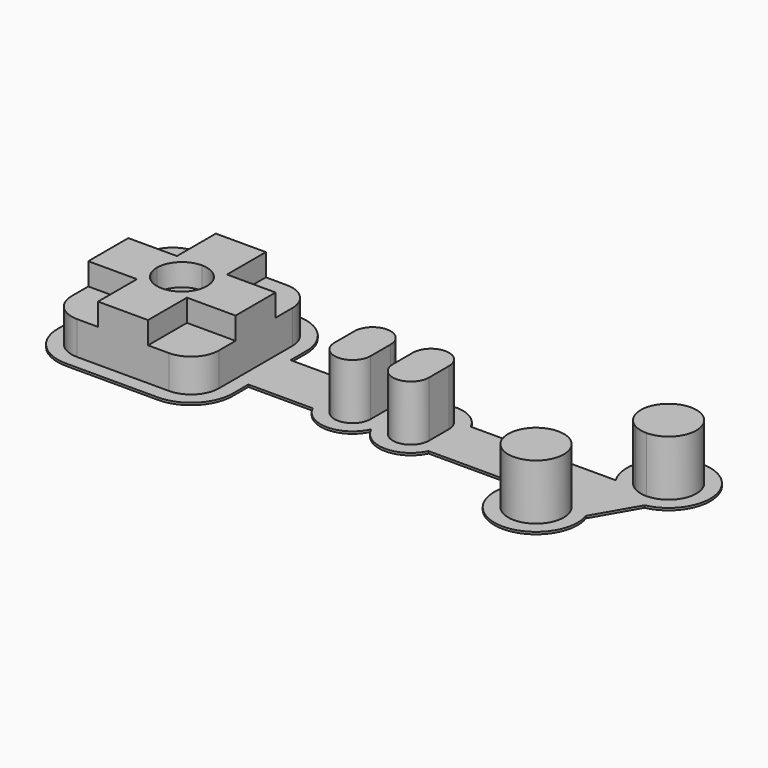
from build123d import *

# Parameters (mm, degrees)
F0_W     = 16
F0_H     = 4.5
F0_W_2   = 6.5
F0_W_3   = 4
F1_DEPTH = 0.4
F2_W     = 6.5
F2_H     = 4.5
F3_DEPTH = 10
F5_DEPTH = 4


with BuildPart() as f1:
    # F0 (on Top) → F1 (new body)
    with BuildSketch(Plane.XY):
        with BuildLine():
            Line((15.75, 4.75), (15.75, 8.25))
            ThreePointArc((15.75, 8.25), (13.5533008589, 13.5533008589), (8.25, 15.75))
            Line((8.25, 15.75), (-8.25, 15.75))
            ThreePointArc((-8.25, 15.75), (-13.5533008589, 13.5533008589), (-15.75, 8.25))
            Line((-15.75, 8.25), (-15.75, -8.25))
            ThreePointArc((-15.75, -8.25), (-13.5533008589, -13.5533008589), (-8.25, -15.75))
            Line((-8.25, -15.75), (8.25, -15.75))
            ThreePointArc((8.25, -15.75), (13.5533008589, -13.5533008589), (15.75, -8.25))
            Line((15.75, -8.25), (15.75, -4.75))
            Line((15.75, -4.75), (27.3219212057, -4.75))
            ThreePointArc((27.3219212057, -4.75), (32.5853423404, -7.9993666334), (37.75, -4.5952078799))
            ThreePointArc((37.75, -4.5952078799), (42.9146576596, -7.9993666334), (48.1780787943, -4.75))
            Line((48.1780787943, -4.75), (64.2367581147, -4.75))
            ThreePointArc((64.2367581147, -4.75), (69.772491367, -16.1102912652), (77.7619633367, -6.3190248551))
            Line((77.7619633367, -6.3190248551), (82.171793393, 1.3190248551))
            ThreePointArc((82.171793393, 1.3190248551), (83.6132988623, 15.5443055254), (74.2367581147, 4.75))
            Line((74.2367581147, 4.75), (48.1780787943, 4.75))
            ThreePointArc((48.1780787943, 4.75), (42.9146576596, 7.9993666334), (37.75, 4.5952078799))
            ThreePointArc((37.75, 4.5952078799), (32.5853423404, 7.9993666334), (27.3219212057, 4.75))
            Line((27.3219212057, 4.75), (15.75, 4.75))
        make_face()
        with BuildLine():
            ThreePointArc((-13.25, 8.25), (-11.7855339059, 11.7855339059), (-8.25, 13.25))
            Line((-8.25, 13.25), (-4.5, 13.25))
            Line((-4.5, 13.25), (4.5, 13.25))
            Line((4.5, 13.25), (8.25, 13.25))
            ThreePointArc((8.25, 13.25), (11.7855339059, 11.7855339059), (13.25, 8.25))
            Line((13.25, 8.25), (13.25, 4.5))
            Line((13.25, 4.5), (13.25, 2.25))
            Line((13.25, 2.25), (29.25, 2.25))
            ThreePointArc((29.25, 2.25), (32.5, 5.5), (35.75, 2.25))
            Line((35.75, 2.25), (39.75, 2.25))
            ThreePointArc((39.75, 2.25), (43, 5.5), (46.25, 2.25))
            Line((46.25, 2.25), (74.0490381057, 2.25))
            Line((74.0490381057, 2.25), (76.306624327, 6.1602540378))
            ThreePointArc((76.306624327, 6.1602540378), (83.1367513459, 12.9903810568), (80.6367513459, 3.6602540378))
            Line((80.6367513459, 3.6602540378), (74.9668783649, -6.1602540378))
            ThreePointArc((74.9668783649, -6.1602540378), (68.1367513459, -12.9903810568), (70.6367513459, -3.6602540378))
            Line((70.6367513459, -3.6602540378), (71.4509618943, -2.25))
            Line((71.4509618943, -2.25), (46.25, -2.25))
            ThreePointArc((46.25, -2.25), (43, -5.5), (39.75, -2.25))
            Line((39.75, -2.25), (35.75, -2.25))
            ThreePointArc((35.75, -2.25), (32.5, -5.5), (29.25, -2.25))
            Line((29.25, -2.25), (13.25, -2.25))
            Line((13.25, -2.25), (13.25, -4.5))
            Line((13.25, -4.5), (13.25, -8.25))
            ThreePointArc((13.25, -8.25), (11.7855339059, -11.7855339059), (8.25, -13.25))
            Line((8.25, -13.25), (4.5, -13.25))
            Line((4.5, -13.25), (-4.5, -13.25))
            Line((-4.5, -13.25), (-8.25, -13.25))
            ThreePointArc((-8.25, -13.25), (-11.7855339059, -11.7855339059), (-13.25, -8.25))
            Line((-13.25, -8.25), (-13.25, -4.5))
            Line((-13.25, -4.5), (-13.25, 4.5))
            Line((-13.25, 4.5), (-13.25, 8.25))
        make_face(mode=Mode.SUBTRACT)
        Polygon((74.0490381057, 2.25), (46.25, 2.25), (46.25, -2.25), (71.4509618943, -2.25), align=None)
        Polygon((13.25, 4.5), (4.5, 4.5), (4.5, 0), (4.5, -4.5), (13.25, -4.5), (13.25, -2.25), (13.25, 2.25), align=None)
        Polygon((-4.5, 0), (-4.5, 4.5), (-13.25, 4.5), (-13.25, -4.5), (-4.5, -4.5), align=None)
        Polygon((4.5, -4.5), (0, -4.5), (-4.5, -4.5), (-4.5, -13.25), (4.5, -13.25), align=None)
        Polygon((4.5, 13.25), (-4.5, 13.25), (-4.5, 4.5), (0, 4.5), (4.5, 4.5), align=None)
        with BuildLine():
            ThreePointArc((74.9668783649, -6.1602540378), (73.1367513459, -4.3301270189), (70.6367513459, -3.6602540378))
            ThreePointArc((70.6367513459, -3.6602540378), (68.1367513459, -12.9903810568), (74.9668783649, -6.1602540378))
        make_face()
        with BuildLine():
            ThreePointArc((80.6367513459, 3.6602540378), (83.1367513459, 12.9903810568), (76.306624327, 6.1602540378))
            ThreePointArc((76.306624327, 6.1602540378), (78.1363307509, 4.3303698768), (80.6357799962, 3.6602541322))
            ThreePointArc((80.6357799962, 3.6602541322), (80.6362656711, 3.6602540614), (80.6367513459, 3.6602540378))
        make_face()
        with Locations((21.25, 0)):
            Rectangle(F0_W, F0_H)
        with BuildLine():
            Line((-4.5, -4.5), (-13.25, -4.5))
            Line((-13.25, -4.5), (-13.25, -8.25))
            ThreePointArc((-13.25, -8.25), (-11.7855339059, -11.7855339059), (-8.25, -13.25))
            Line((-8.25, -13.25), (-4.5, -13.25))
            Line((-4.5, -13.25), (-4.5, -4.5))
        make_face()
        with BuildLine():
            Line((13.25, -4.5), (4.5, -4.5))
            Line((4.5, -4.5), (4.5, -13.25))
            Line((4.5, -13.25), (8.25, -13.25))
            ThreePointArc((8.25, -13.25), (11.7855339059, -11.7855339059), (13.25, -8.25))
            Line((13.25, -8.25), (13.25, -4.5))
        make_face()
        with BuildLine():
            Line((8.25, 13.25), (4.5, 13.25))
            Line((4.5, 13.25), (4.5, 4.5))
            Line((4.5, 4.5), (13.25, 4.5))
            Line((13.25, 4.5), (13.25, 8.25))
            ThreePointArc((13.25, 8.25), (11.7855339059, 11.7855339059), (8.25, 13.25))
        make_face()
        with BuildLine():
            Line((-4.5, 13.25), (-8.25, 13.25))
            ThreePointArc((-8.25, 13.25), (-11.7855339059, 11.7855339059), (-13.25, 8.25))
            Line((-13.25, 8.25), (-13.25, 4.5))
            Line((-13.25, 4.5), (-4.5, 4.5))
            Line((-4.5, 4.5), (-4.5, 13.25))
        make_face()
        with BuildLine():
            ThreePointArc((0, 4.5), (-3.1819805153, 3.1819805153), (-4.5, 0))
            ThreePointArc((-4.5, 0), (-3.1819805153, -3.1819805153), (0, -4.5))
            ThreePointArc((0, -4.5), (3.1819805153, -3.1819805153), (4.5, 0))
            ThreePointArc((4.5, 0), (3.1819805153, 3.1819805153), (0, 4.5))
        make_face()
        with BuildLine():
            Line((76.306624327, 6.1602540378), (74.0490381057, 2.25))
            Line((74.0490381057, 2.25), (71.4509618943, -2.25))
            Line((71.4509618943, -2.25), (70.6367513459, -3.6602540378))
            ThreePointArc((70.6367513459, -3.6602540378), (73.1367513459, -4.3301270189), (74.9668783649, -6.1602540378))
            Line((74.9668783649, -6.1602540378), (80.6367513459, 3.6602540378))
            ThreePointArc((80.6367513459, 3.6602540378), (80.6362656711, 3.6602540614), (80.6357799962, 3.6602541322))
            ThreePointArc((80.6357799962, 3.6602541322), (78.1363307509, 4.3303698768), (76.306624327, 6.1602540378))
        make_face()
        with Locations((32.5, 0)):
            Rectangle(F0_W_2, F0_H)
        with Locations((43, 0)):
            Rectangle(F0_W_2, F0_H)
        with Locations((37.75, 0)):
            Rectangle(F0_W_3, F0_H)
        with BuildLine():
            ThreePointArc((35.75, 2.25), (32.5, 5.5), (29.25, 2.25))
            Line((29.25, 2.25), (35.75, 2.25))
        make_face()
        with BuildLine():
            ThreePointArc((46.25, 2.25), (43, 5.5), (39.75, 2.25))
            Line((39.75, 2.25), (46.25, 2.25))
        make_face()
        with BuildLine():
            Line((35.75, -2.25), (29.25, -2.25))
            ThreePointArc((29.25, -2.25), (32.5, -5.5), (35.75, -2.25))
        make_face()
        with BuildLine():
            Line((46.25, -2.25), (39.75, -2.25))
            ThreePointArc((39.75, -2.25), (43, -5.5), (46.25, -2.25))
        make_face()
        with BuildLine():
            ThreePointArc((0, -4.5), (-3.1819805153, -3.1819805153), (-4.5, 0))
            Line((-4.5, 0), (-4.5, -4.5))
            Line((-4.5, -4.5), (0, -4.5))
        make_face()
        with BuildLine():
            Line((0, 4.5), (-4.5, 4.5))
            Line((-4.5, 4.5), (-4.5, 0))
            ThreePointArc((-4.5, 0), (-3.1819805153, 3.1819805153), (0, 4.5))
        make_face()
        with BuildLine():
            Line((4.5, 0), (4.5, 4.5))
            Line((4.5, 4.5), (0, 4.5))
            ThreePointArc((0, 4.5), (3.1819805153, 3.1819805153), (4.5, 0))
        make_face()
        with BuildLine():
            Line((4.5, -4.5), (4.5, 0))
            ThreePointArc((4.5, 0), (3.1819805153, -3.1819805153), (0, -4.5))
            Line((0, -4.5), (4.5, -4.5))
        make_face()
    extrude(amount=F1_DEPTH)

    # F2 (on face) → F3 (join)
    with BuildSketch(Plane.XY.offset(0.4)):
        Polygon((-4.5, 0), (-4.5, 4.5), (-13.25, 4.5), (-13.25, -4.5), (-4.5, -4.5), align=None)
        with BuildLine():
            ThreePointArc((35.75, 2.25), (32.5, 5.5), (29.25, 2.25))
            Line((29.25, 2.25), (35.75, 2.25))
        make_face()
        with Locations((32.5, 0)):
            Rectangle(F2_W, F2_H)
        with BuildLine():
            Line((35.75, -2.25), (29.25, -2.25))
            ThreePointArc((29.25, -2.25), (32.5, -5.5), (35.75, -2.25))
        make_face()
        with BuildLine():
            Line((-4.5, -4.5), (-13.25, -4.5))
            Line((-13.25, -4.5), (-13.25, -8.25))
            ThreePointArc((-13.25, -8.25), (-11.7855339059, -11.7855339059), (-8.25, -13.25))
            Line((-8.25, -13.25), (-4.5, -13.25))
            Line((-4.5, -13.25), (-4.5, -4.5))
        make_face()
        Polygon((4.5, -4.5), (0, -4.5), (-4.5, -4.5), (-4.5, -13.25), (4.5, -13.25), align=None)
        with BuildLine():
            Line((13.25, -4.5), (4.5, -4.5))
            Line((4.5, -4.5), (4.5, -13.25))
            Line((4.5, -13.25), (8.25, -13.25))
            ThreePointArc((8.25, -13.25), (11.7855339059, -11.7855339059), (13.25, -8.25))
            Line((13.25, -8.25), (13.25, -4.5))
        make_face()
        Polygon((13.25, 4.5), (4.5, 4.5), (4.5, 0), (4.5, -4.5), (13.25, -4.5), (13.25, -2.25), (13.25, 2.25), align=None)
        with BuildLine():
            ThreePointArc((0, 4.5), (-3.1819805153, 3.1819805153), (-4.5, 0))
            ThreePointArc((-4.5, 0), (-3.1819805153, -3.1819805153), (0, -4.5))
            ThreePointArc((0, -4.5), (3.1819805153, -3.1819805153), (4.5, 0))
            ThreePointArc((4.5, 0), (3.1819805153, 3.1819805153), (0, 4.5))
        make_face()
        with BuildLine():
            Line((4.5, -4.5), (4.5, 0))
            ThreePointArc((4.5, 0), (3.1819805153, -3.1819805153), (0, -4.5))
            Line((0, -4.5), (4.5, -4.5))
        make_face()
        with BuildLine():
            ThreePointArc((0, -4.5), (-3.1819805153, -3.1819805153), (-4.5, 0))
            Line((-4.5, 0), (-4.5, -4.5))
            Line((-4.5, -4.5), (0, -4.5))
        make_face()
        with BuildLine():
            Line((0, 4.5), (-4.5, 4.5))
            Line((-4.5, 4.5), (-4.5, 0))
            ThreePointArc((-4.5, 0), (-3.1819805153, 3.1819805153), (0, 4.5))
        make_face()
        Polygon((4.5, 13.25), (-4.5, 13.25), (-4.5, 4.5), (0, 4.5), (4.5, 4.5), align=None)
        with BuildLine():
            Line((-4.5, 13.25), (-8.25, 13.25))
            ThreePointArc((-8.25, 13.25), (-11.7855339059, 11.7855339059), (-13.25, 8.25))
            Line((-13.25, 8.25), (-13.25, 4.5))
            Line((-13.25, 4.5), (-4.5, 4.5))
            Line((-4.5, 4.5), (-4.5, 13.25))
        make_face()
        with BuildLine():
            Line((8.25, 13.25), (4.5, 13.25))
            Line((4.5, 13.25), (4.5, 4.5))
            Line((4.5, 4.5), (13.25, 4.5))
            Line((13.25, 4.5), (13.25, 8.25))
            ThreePointArc((13.25, 8.25), (11.7855339059, 11.7855339059), (8.25, 13.25))
        make_face()
        with BuildLine():
            Line((4.5, 0), (4.5, 4.5))
            Line((4.5, 4.5), (0, 4.5))
            ThreePointArc((0, 4.5), (3.1819805153, 3.1819805153), (4.5, 0))
        make_face()
        with Locations((43, 0)):
            Rectangle(F2_W, F2_H)
        with BuildLine():
            ThreePointArc((46.25, 2.25), (43, 5.5), (39.75, 2.25))
            Line((39.75, 2.25), (46.25, 2.25))
        make_face()
        with BuildLine():
            Line((46.25, -2.25), (39.75, -2.25))
            ThreePointArc((39.75, -2.25), (43, -5.5), (46.25, -2.25))
        make_face()
        with BuildLine():
            ThreePointArc((73.1367513459, -4.3301270189), (71.9308465715, -3.8306249064), (70.6367513459, -3.6602540378))
            ThreePointArc((70.6367513459, -3.6602540378), (68.1367513459, -12.9903810568), (74.9668783649, -6.1602540378))
            ThreePointArc((74.9668783649, -6.1602540378), (74.1722852519, -5.1247201319), (73.1367513459, -4.3301270189))
        make_face()
        with BuildLine():
            ThreePointArc((80.6367513459, 3.6602540378), (83.1367513459, 12.9903810568), (76.306624327, 6.1602540378))
            ThreePointArc((76.306624327, 6.1602540378), (77.10121744, 5.1247201319), (78.1367513459, 4.3301270189))
            ThreePointArc((78.1367513459, 4.3301270189), (79.3421870006, 3.8307506311), (80.6357799962, 3.6602541322))
            ThreePointArc((80.6357799962, 3.6602541322), (80.6362656711, 3.6602540614), (80.6367513459, 3.6602540378))
        make_face()
    extrude(amount=F3_DEPTH)

    # F4 (on face) → F5 (cut)
    with BuildSketch(Plane.XY.offset(10.4)):
        with BuildLine():
            Line((13.25, -4.5), (4.5, -4.5))
            Line((4.5, -4.5), (4.5, -13.25))
            Line((4.5, -13.25), (8.25, -13.25))
            ThreePointArc((8.25, -13.25), (11.7855339059, -11.7855339059), (13.25, -8.25))
            Line((13.25, -8.25), (13.25, -4.5))
        make_face()
        with BuildLine():
            Line((-4.5, -4.5), (-13.25, -4.5))
            Line((-13.25, -4.5), (-13.25, -8.25))
            ThreePointArc((-13.25, -8.25), (-11.7855339059, -11.7855339059), (-8.25, -13.25))
            Line((-8.25, -13.25), (-4.5, -13.25))
            Line((-4.5, -13.25), (-4.5, -4.5))
        make_face()
        with BuildLine():
            Line((-4.5, 13.25), (-8.25, 13.25))
            ThreePointArc((-8.25, 13.25), (-11.7855339059, 11.7855339059), (-13.25, 8.25))
            Line((-13.25, 8.25), (-13.25, 4.5))
            Line((-13.25, 4.5), (-4.5, 4.5))
            Line((-4.5, 4.5), (-4.5, 13.25))
        make_face()
        with BuildLine():
            Line((8.25, 13.25), (4.5, 13.25))
            Line((4.5, 13.25), (4.5, 4.5))
            Line((4.5, 4.5), (13.25, 4.5))
            Line((13.25, 4.5), (13.25, 8.25))
            ThreePointArc((13.25, 8.25), (11.7855339059, 11.7855339059), (8.25, 13.25))
        make_face()
        with BuildLine():
            ThreePointArc((0, 4.5), (-3.1819805153, 3.1819805153), (-4.5, 0))
            ThreePointArc((-4.5, 0), (-3.1819805153, -3.1819805153), (0, -4.5))
            ThreePointArc((0, -4.5), (3.1819805153, -3.1819805153), (4.5, 0))
            ThreePointArc((4.5, 0), (3.1819805153, 3.1819805153), (0, 4.5))
        make_face()
    extrude(amount=-F5_DEPTH, mode=Mode.SUBTRACT)


solid = f1.part
